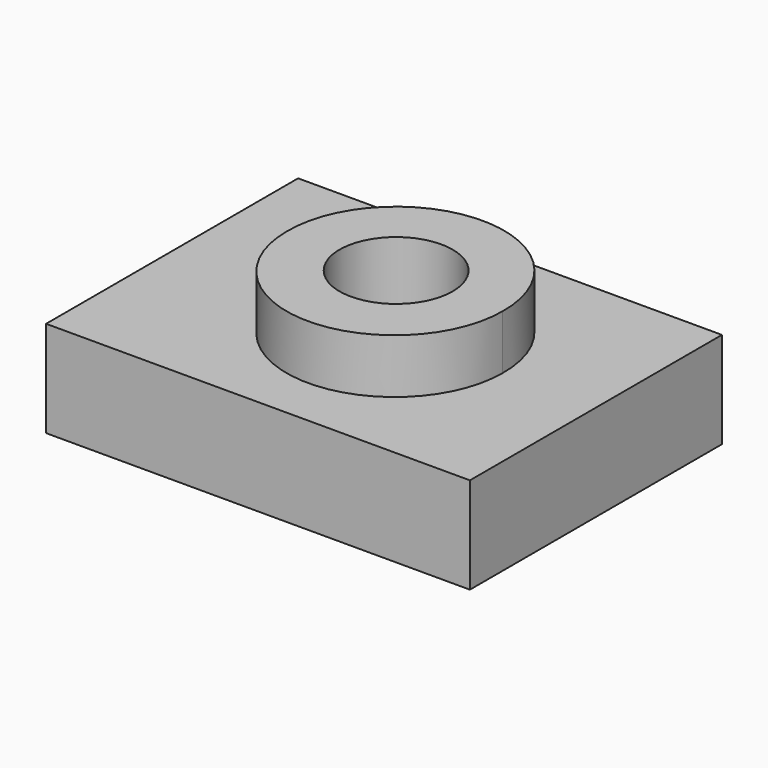
from build123d import *

# Parameters (mm, degrees)
F0_R     = 13.732641
F1_DEPTH = 36.576
F0_W     = 102.870002
F0_H     = 76.46276
F2_DEPTH = 23.368


with BuildPart() as f1:
    # F0 (on Top) → F1 (new body)
    with BuildSketch(Plane.XY):
        with BuildLine():
            ThreePointArc((28.772071, 0), (2.561897, 26.694094), (-23.648277, 0))
            ThreePointArc((-23.648277, 0), (2.561897, -26.210174), (28.772071, 0))
        make_face()
        with Locations((2.561897, 0.479534)):
            Circle(F0_R, mode=Mode.SUBTRACT)
    extrude(amount=F1_DEPTH)

    # F0 (on Top) → F2 (join)
    with BuildSketch(Plane.XY):
        Rectangle(F0_W, F0_H)
        with BuildLine():
            ThreePointArc((28.772071, 0), (2.561897, -26.210174), (-23.648277, 0))
            ThreePointArc((-23.648277, 0), (2.561897, 26.694094), (28.772071, 0))
        make_face(mode=Mode.SUBTRACT)
    extrude(amount=F2_DEPTH)


solid = f1.part
